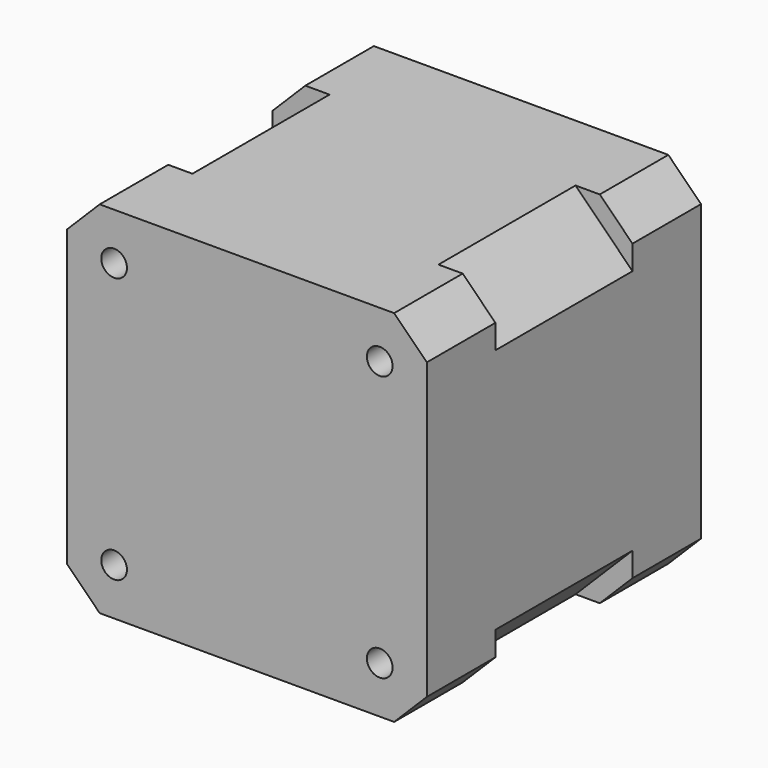
from build123d import *

# Parameters (mm, degrees)
F0_R     = 1.5
F0_R_2   = 11
F0_R_3   = 2.5
F1_DEPTH = 40
F2_START = 30
F2_DEPTH = 10
F3_DEPTH = 10
F4_DEPTH = 2
F5_DEPTH = 22
F6_START = 5
F6_DEPTH = 30


with BuildPart() as f1:
    # F0 (on Front) → F1 (new body)
    with BuildSketch(Plane.XZ):
        Polygon((-14.3553390593, 21), (-21, 14.3553390593), (-21, -14.3553390593), (-14.3553390593, -21), (14.3553390593, -21), (21, -14.3553390593), (21, 14.3553390593), (14.3553390593, 21), align=None)
        with Locations((-15.5, -15.5)):
            Circle(F0_R, mode=Mode.SUBTRACT)
        with Locations((15.5, -15.5)):
            Circle(F0_R, mode=Mode.SUBTRACT)
        with Locations((-15.5, 15.5)):
            Circle(F0_R, mode=Mode.SUBTRACT)
        Circle(F0_R_2, mode=Mode.SUBTRACT)
        with Locations((15.5, 15.5)):
            Circle(F0_R, mode=Mode.SUBTRACT)
        Circle(F0_R_2)
        Circle(F0_R_3, mode=Mode.SUBTRACT)
        Circle(F0_R_3)
    extrude(amount=F1_DEPTH)

    # F0 (on Front) → F2 (join)
    with BuildSketch(Plane.XZ.offset(F2_START)):
        Polygon((-17.1837661841, 21), (-21, 17.1837661841), (-21, 14.3553390593), (-14.3553390593, 21), align=None)
        Polygon((-14.3553390593, -21), (-21, -14.3553390593), (-21, -17.1837661841), (-17.1837661841, -21), align=None)
        Polygon((21, -14.3553390593), (14.3553390593, -21), (17.1837661841, -21), (21, -17.1837661841), align=None)
        Polygon((17.1837661841, 21), (14.3553390593, 21), (21, 14.3553390593), (21, 17.1837661841), align=None)
    extrude(amount=F2_DEPTH)

    # F0 (on Front) → F3 (join)
    with BuildSketch(Plane.XZ):
        Polygon((17.1837661841, 21), (14.3553390593, 21), (21, 14.3553390593), (21, 17.1837661841), align=None)
        Polygon((-17.1837661841, 21), (-21, 17.1837661841), (-21, 14.3553390593), (-14.3553390593, 21), align=None)
        Polygon((-14.3553390593, -21), (-21, -14.3553390593), (-21, -17.1837661841), (-17.1837661841, -21), align=None)
        Polygon((21, -14.3553390593), (14.3553390593, -21), (17.1837661841, -21), (21, -17.1837661841), align=None)
    extrude(amount=F3_DEPTH)

    # F0 (on Front) → F4 (join)
    with BuildSketch(Plane.XZ):
        Circle(F0_R_2)
        Circle(F0_R_3, mode=Mode.SUBTRACT)
    extrude(amount=-F4_DEPTH)

    # F0 (on Front) → F5 (join)
    with BuildSketch(Plane.XZ):
        Circle(F0_R_3)
    extrude(amount=-F5_DEPTH)

    # F0 (on Front) → F6 (join)
    with BuildSketch(Plane.XZ.offset(F6_START)):
        with Locations((15.5, 15.5)):
            Circle(F0_R)
        with Locations((-15.5, 15.5)):
            Circle(F0_R)
        with Locations((-15.5, -15.5)):
            Circle(F0_R)
        with Locations((15.5, -15.5)):
            Circle(F0_R)
    extrude(amount=F6_DEPTH)


solid = f1.part
